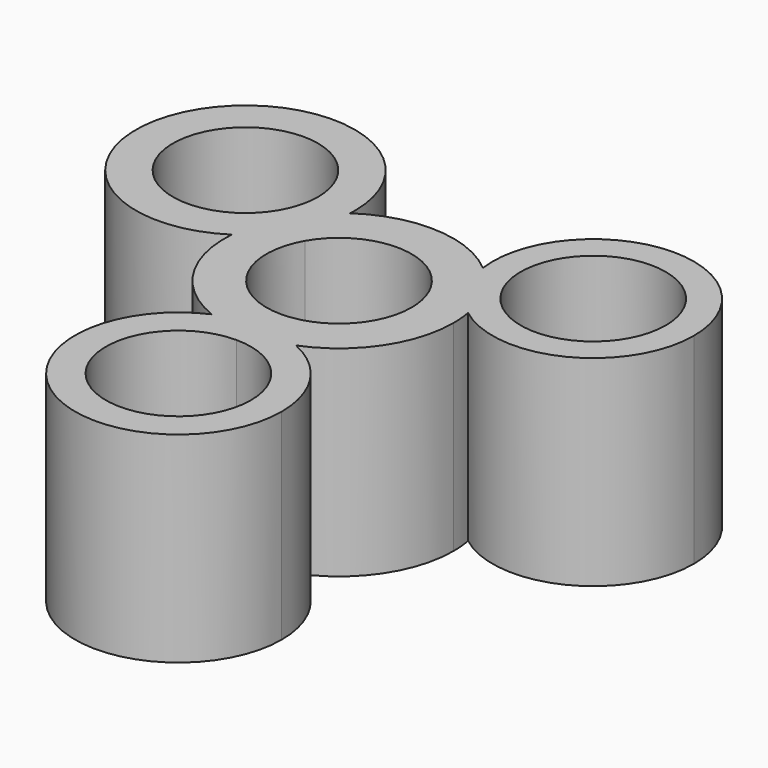
from build123d import *

# Parameters (mm, degrees)
F1_DEPTH = 30.48


with BuildPart() as f1:
    # F0 (on Top) → F1 (new body)
    with BuildSketch(Plane.XY):
        with BuildLine():
            ThreePointArc((-17.3256437627, 1.3053019516), (-14.3294844151, 3.8013090235), (-11.9970945915, 6.9265257919))
            Line((-11.9970945915, 6.9265257919), (-15.0469700848, 8.6873722289))
            ThreePointArc((-15.0469700848, 8.6873722289), (-16.6018153292, 5.1245948867), (-17.3256437627, 1.3053019516))
        make_face()
        with BuildLine():
            Line((-15.0469700848, 8.6873722289), (-11.9970945915, 6.9265257919))
            ThreePointArc((-11.9970945915, 6.9265257919), (-10.4567723895, 10.5090430149), (-9.7932465311, 14.3517966596))
            ThreePointArc((-9.7932465311, 14.3517966596), (-12.7389370205, 11.8152963807), (-15.0469700848, 8.6873722289))
        make_face()
        with BuildLine():
            ThreePointArc((11.249575361, 13.2411781641), (11.9298201795, 10.3267803268), (13.165149651, 7.6009026949))
            Line((13.165149651, 7.6009026949), (15.0469700848, 8.6873722289))
            ThreePointArc((15.0469700848, 8.6873722289), (13.3439635311, 11.1274607282), (11.249575361, 13.2411781641))
        make_face()
        with BuildLine():
            Line((15.0469700848, 8.6873722289), (13.165149651, 7.6009026949))
            ThreePointArc((13.165149651, 7.6009026949), (14.908164192, 5.1681371746), (17.0919843466, 3.1218289624))
            ThreePointArc((17.0919843466, 3.1218289624), (16.3086454358, 5.992481041), (15.0469700848, 8.6873722289))
        make_face()
        with BuildLine():
            Line((0, -17.3747444579), (0, -14.7941525276))
            ThreePointArc((0, -14.7941525276), (-3.2680919654, -15.1383773403), (-6.392747837, -16.1559438))
            ThreePointArc((-6.392747837, -16.1559438), (-3.2539476006, -17.0673246289), (0, -17.3747444579))
        make_face()
        with BuildLine():
            ThreePointArc((6.392747837, -16.1559438), (3.2680919654, -15.1383773403), (0, -14.7941525276))
            Line((0, -14.7941525276), (0, -17.3747444579))
            ThreePointArc((0, -17.3747444579), (3.2539476006, -17.0673246289), (6.392747837, -16.1559438))
        make_face()
        with BuildLine():
            ThreePointArc((11.249575361, 13.2411781641), (13.3439635311, 11.1274607282), (15.0469700848, 8.6873722289))
            ThreePointArc((15.0469700848, 8.6873722289), (16.3086454358, 5.992481041), (17.0919843466, 3.1218289624))
            ThreePointArc((17.0919843466, 3.1218289624), (33.1517384517, 1.5363739589), (41.6746489175, 15.24))
            ThreePointArc((41.6746489175, 15.24), (25.3948889656, 30.4853303478), (11.249575361, 13.2411781641))
        make_face()
        with BuildLine():
            ThreePointArc((37.4073543073, 15.24), (29.2462849311, 4.6042873193), (16.8607351888, 9.73455))
            ThreePointArc((16.8607351888, 9.73455), (23.5466236836, 25.8757126807), (37.4073543073, 15.24))
        make_face(mode=Mode.SUBTRACT)
        with BuildLine():
            ThreePointArc((6.392747837, -16.1559438), (3.2539476006, -17.0673246289), (0, -17.3747444579))
            ThreePointArc((0, -17.3747444579), (-3.2539476006, -17.0673246289), (-6.392747837, -16.1559438))
            ThreePointArc((-6.392747837, -16.1559438), (-8.5372754268, -43.6390554074), (15.6858474724, -30.48))
            ThreePointArc((15.6858474724, -30.48), (13.1590554074, -21.9427245732), (6.392747837, -16.1559438))
        make_face()
        with BuildLine():
            ThreePointArc((11.0109, -30.48), (-7.785882057, -38.265882057), (0, -19.4691))
            ThreePointArc((0, -19.4691), (7.785882057, -22.694117943), (11.0109, -30.48))
        make_face(mode=Mode.SUBTRACT)
        with BuildLine():
            ThreePointArc((-9.5357191185, 5.50545), (0, 11.0109), (9.5357191185, 5.50545))
            Line((9.5357191185, 5.50545), (13.165149651, 7.6009026949))
            ThreePointArc((13.165149651, 7.6009026949), (11.9298201795, 10.3267803268), (11.249575361, 13.2411781641))
            ThreePointArc((11.249575361, 13.2411781641), (0.9157465675, 17.3505951829), (-9.7932465311, 14.3517966596))
            ThreePointArc((-9.7932465311, 14.3517966596), (-10.4567723895, 10.5090430149), (-11.9970945915, 6.9265257919))
            Line((-11.9970945915, 6.9265257919), (-9.5357191185, 5.50545))
        make_face()
        with BuildLine():
            Line((0, -14.7941525276), (0, -11.0109))
            ThreePointArc((0, -11.0109), (-9.5357191185, -5.50545), (-9.5357191185, 5.50545))
            Line((-9.5357191185, 5.50545), (-11.9970945915, 6.9265257919))
            ThreePointArc((-11.9970945915, 6.9265257919), (-14.3294844151, 3.8013090235), (-17.3256437627, 1.3053019516))
            ThreePointArc((-17.3256437627, 1.3053019516), (-14.726313212, -9.220490451), (-6.392747837, -16.1559438))
            ThreePointArc((-6.392747837, -16.1559438), (-3.2680919654, -15.1383773403), (0, -14.7941525276))
        make_face()
        with BuildLine():
            ThreePointArc((9.5357191185, 5.50545), (10.6357126807, 2.8498306237), (11.0109, 0))
            ThreePointArc((11.0109, 0), (7.785882057, -7.785882057), (0, -11.0109))
            Line((0, -11.0109), (0, -14.7941525276))
            ThreePointArc((0, -14.7941525276), (3.2680919654, -15.1383773403), (6.392747837, -16.1559438))
            ThreePointArc((6.392747837, -16.1559438), (14.3693093959, -9.7675325678), (17.3747444579, 0))
            ThreePointArc((17.3747444579, 0), (17.303910039, 1.5673041625), (17.0919843466, 3.1218289624))
            ThreePointArc((17.0919843466, 3.1218289624), (14.908164192, 5.1681371746), (13.165149651, 7.6009026949))
            Line((13.165149651, 7.6009026949), (9.5357191185, 5.50545))
        make_face()
        with BuildLine():
            ThreePointArc((-17.3256437627, 1.3053019516), (-16.6018153292, 5.1245948867), (-15.0469700848, 8.6873722289))
            ThreePointArc((-15.0469700848, 8.6873722289), (-12.7389370205, 11.8152963807), (-9.7932465311, 14.3517966596))
            ThreePointArc((-9.7932465311, 14.3517966596), (-9.7754421108, 14.7957397182), (-9.7695058911, 15.24))
            ThreePointArc((-9.7695058911, 15.24), (-41.0128032471, 23.1657654083), (-17.3256437627, 1.3053019516))
        make_face()
        with BuildLine():
            ThreePointArc((-15.3855543073, 15.24), (-15.7607416267, 12.3901693763), (-16.8607351888, 9.73455))
            ThreePointArc((-16.8607351888, 9.73455), (-37.032166988, 18.0898306237), (-15.3855543073, 15.24))
        make_face(mode=Mode.SUBTRACT)
    extrude(amount=F1_DEPTH)


solid = f1.part
